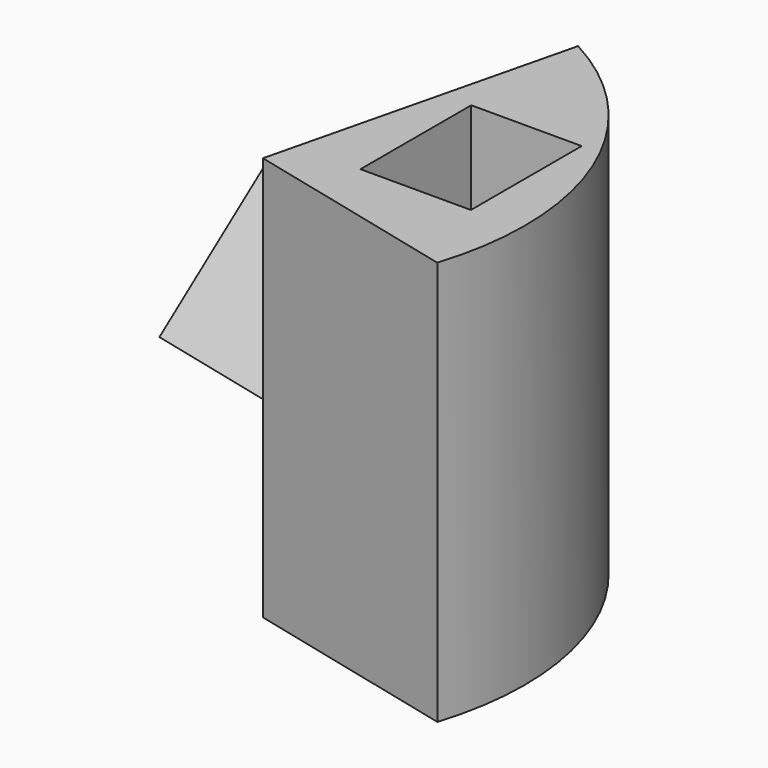
from build123d import *

# Parameters (mm, degrees)
F0_W     = 12.7
F0_H     = 15.9213780425
F1_DEPTH = 46.482
F3_DEPTH = 25.4


with BuildPart() as f1:
    # F0 (on Top) → F1 (new body)
    with BuildSketch(Plane.XY):
        with BuildLine():
            ThreePointArc((16.7416256447, -20.4212910858), (15.8982302722, 2.9417746338), (0.3078590999, 20.3625806509))
            Line((0.3078590999, 20.3625806509), (-8.168171327, -14.3365160608))
            Line((-8.168171327, -14.3365160608), (16.7416256447, -20.4212910858))
        make_face()
        with Locations((6.35, -2.5750233326)):
            Rectangle(F0_W, F0_H, mode=Mode.SUBTRACT)
    extrude(amount=F1_DEPTH)

    # F2 (on face) → F3 (join)
    with BuildSketch(Plane(origin=(-4.40340964, 1.0756312881, 0), x_dir=(-0.2372953486, -0.9714375521, 0), z_dir=(-0.9714375521, 0.2372953486, 0))):
        Polygon((8.0335900158, 15.4112059095), (-4.2063454166, 29.3332058936), (-12.0916292071, 22.4006269127), align=None)
    extrude(amount=F3_DEPTH)


solid = f1.part
